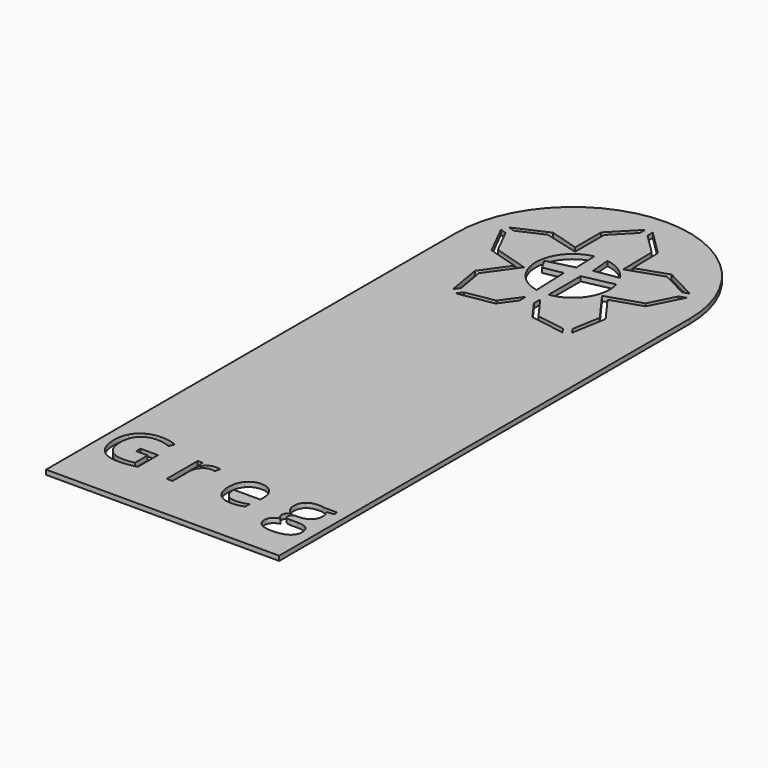
from build123d import *

# Parameters (mm, degrees)
F1_DEPTH = 1


with BuildPart() as f1:
    # F0 (on Top) → F1 (new body)
    with BuildSketch(Plane.XY):
        with BuildLine():
            Line((1.4284653794, -97.4952458707), (1.4284653794, 12.5047541293))
            ThreePointArc((1.4284653794, 12.5047541293), (-23.5715346206, 37.5047541293), (-48.5715346206, 12.5047541293))
            Line((-48.5715346206, 12.5047541293), (-48.5715346206, -97.4952458707))
            Line((-48.5715346206, -97.4952458707), (1.4284653794, -97.4952458707))
        make_face()
        with BuildLine():
            Line((-40.9714938458, -82.839567991), (-40.9714938458, -81.6871724762))
            Line((-40.9714938458, -81.6871724762), (-37.2037670365, -81.6871724762))
            Line((-37.2037670365, -81.6871724762), (-37.2037670365, -87.0779573895))
            add(Edge.make_bspline(
                [(-37.2037670365, -87.0779573895), (-38.0844398193, -87.3593845047), (-38.9942257521, -87.503737206)],
                knots=[0, 0, 0, 1, 1, 1], degree=2))
            add(Edge.make_bspline(
                [(-38.9942257521, -87.503737206), (-39.9040116848, -87.6480899074), (-41.1025030202, -87.6480899074)],
                knots=[0, 0, 0, 1, 1, 1], degree=2))
            add(Edge.make_bspline(
                [(-41.1025030202, -87.6480899074), (-43.6183643861, -87.6480899074), (-45.0206477704, -86.1499757382)],
                knots=[0, 0, 0, 1, 1, 1], degree=2))
            add(Edge.make_bspline(
                [(-45.0206477704, -86.1499757382), (-46.4229311547, -84.6518615689), (-46.4229311547, -81.9540430164)],
                knots=[0, 0, 0, 1, 1, 1], degree=2))
            add(Edge.make_bspline(
                [(-46.4229311547, -81.9540430164), (-46.4229311547, -80.2242366964), (-45.72906775, -78.9238493365)],
                knots=[0, 0, 0, 1, 1, 1], degree=2))
            add(Edge.make_bspline(
                [(-45.72906775, -78.9238493365), (-45.0352043453, -77.6234619767), (-43.7311778418, -76.9380899074)],
                knots=[0, 0, 0, 1, 1, 1], degree=2))
            add(Edge.make_bspline(
                [(-43.7311778418, -76.9380899074), (-42.4271513382, -76.252717838), (-40.6779362516, -76.252717838)],
                knots=[0, 0, 0, 1, 1, 1], degree=2))
            add(Edge.make_bspline(
                [(-40.6779362516, -76.252717838), (-38.9020341109, -76.252717838), (-37.3711676481, -76.902911518)],
                knots=[0, 0, 0, 1, 1, 1], degree=2))
            Line((-37.3711676481, -76.902911518), (-37.8709433871, -78.0407504578))
            add(Edge.make_bspline(
                [(-37.8709433871, -78.0407504578), (-39.3726967001, -77.4051133528), (-40.7604235095, -77.4051133528)],
                knots=[0, 0, 0, 1, 1, 1], degree=2))
            add(Edge.make_bspline(
                [(-40.7604235095, -77.4051133528), (-42.7837874238, -77.4051133528), (-43.9216263637, -78.6096699278)],
                knots=[0, 0, 0, 1, 1, 1], degree=2))
            add(Edge.make_bspline(
                [(-43.9216263637, -78.6096699278), (-45.0594653035, -79.8142265027), (-45.0594653035, -81.9540430164)],
                knots=[0, 0, 0, 1, 1, 1], degree=2))
            add(Edge.make_bspline(
                [(-45.0594653035, -81.9540430164), (-45.0594653035, -84.1981816505), (-43.9640830405, -85.3578554527)],
                knots=[0, 0, 0, 1, 1, 1], degree=2))
            add(Edge.make_bspline(
                [(-43.9640830405, -85.3578554527), (-42.8687007776, -86.517529255), (-40.7458669345, -86.517529255)],
                knots=[0, 0, 0, 1, 1, 1], degree=2))
            add(Edge.make_bspline(
                [(-40.7458669345, -86.517529255), (-39.5934714198, -86.517529255), (-38.494450013, -86.2506587147)],
                knots=[0, 0, 0, 1, 1, 1], degree=2))
            Line((-38.494450013, -86.2506587147), (-38.494450013, -82.839567991))
            Line((-38.494450013, -82.839567991), (-40.9714938458, -82.839567991))
        make_face(mode=Mode.SUBTRACT)
        with BuildLine():
            add(Edge.make_bspline(
                [(-28.3412390039, -79.4733600399), (-27.6886192281, -79.0330236484), (-26.9074163739, -79.0330236484)],
                knots=[0, 0, 0, 1, 1, 1], degree=2))
            add(Edge.make_bspline(
                [(-26.9074163739, -79.0330236484), (-26.3542665268, -79.0330236484), (-25.9151431833, -79.1252152896)],
                knots=[0, 0, 0, 1, 1, 1], degree=2))
            Line((-25.9151431833, -79.1252152896), (-26.0898220823, -80.2921673793))
            add(Edge.make_bspline(
                [(-26.0898220823, -80.2921673793), (-26.6041543963, -80.1781408758), (-26.9996080151, -80.1781408758)],
                knots=[0, 0, 0, 1, 1, 1], degree=2))
            add(Edge.make_bspline(
                [(-26.9996080151, -80.1781408758), (-28.0088638764, -80.1781408758), (-28.7245621435, -80.9969482152)],
                knots=[0, 0, 0, 1, 1, 1], degree=2))
            add(Edge.make_bspline(
                [(-28.7245621435, -80.9969482152), (-29.4402604106, -81.8157555547), (-29.4402604106, -83.0360817524)],
                knots=[0, 0, 0, 1, 1, 1], degree=2))
            Line((-29.4402604106, -83.0360817524), (-29.4402604106, -87.4952458707))
            Line((-29.4402604106, -87.4952458707), (-30.6994041415, -87.4952458707))
            Line((-30.6994041415, -87.4952458707), (-30.6994041415, -79.1858676851))
            Line((-30.6994041415, -79.1858676851), (-29.6610351303, -79.1858676851))
            Line((-29.6610351303, -79.1858676851), (-29.515469381, -80.7240124354))
            Line((-29.515469381, -80.7240124354), (-29.4548169855, -80.7240124354))
            add(Edge.make_bspline(
                [(-29.4548169855, -80.7240124354), (-28.9938587796, -79.9136964313), (-28.3412390039, -79.4733600399)],
                knots=[0, 0, 0, 1, 1, 1], degree=2))
        make_face(mode=Mode.SUBTRACT)
        with BuildLine():
            add(Edge.make_bspline(
                [(-15.3786090344, -87.5219329247), (-15.9730025105, -87.6480899074), (-16.8148577602, -87.6480899074)],
                knots=[0, 0, 0, 1, 1, 1], degree=2))
            add(Edge.make_bspline(
                [(-16.8148577602, -87.6480899074), (-18.6562644881, -87.6480899074), (-19.7225336012, -86.5248075424)],
                knots=[0, 0, 0, 1, 1, 1], degree=2))
            add(Edge.make_bspline(
                [(-19.7225336012, -86.5248075424), (-20.7888027143, -85.4015251775), (-20.7888027143, -83.4097005088)],
                knots=[0, 0, 0, 1, 1, 1], degree=2))
            add(Edge.make_bspline(
                [(-20.7888027143, -83.4097005088), (-20.7888027143, -81.3984670735), (-19.7989556195, -80.215745361)],
                knots=[0, 0, 0, 1, 1, 1], degree=2))
            add(Edge.make_bspline(
                [(-19.7989556195, -80.215745361), (-18.8091085247, -79.0330236484), (-17.1399546002, -79.0330236484)],
                knots=[0, 0, 0, 1, 1, 1], degree=2))
            add(Edge.make_bspline(
                [(-17.1399546002, -79.0330236484), (-15.5799749875, -79.0330236484), (-14.6701890548, -80.0604752285)],
                knots=[0, 0, 0, 1, 1, 1], degree=2))
            add(Edge.make_bspline(
                [(-14.6701890548, -80.0604752285), (-13.7604031221, -81.0879268085), (-13.7604031221, -82.771637308)],
                knots=[0, 0, 0, 1, 1, 1], degree=2))
            Line((-13.7604031221, -82.771637308), (-13.7604031221, -83.5673967371))
            Line((-13.7604031221, -83.5673967371), (-19.4835631629, -83.5673967371))
            add(Edge.make_bspline(
                [(-19.4835631629, -83.5673967371), (-19.4447456297, -85.0303325169), (-18.7436039376, -85.7884874609)],
                knots=[0, 0, 0, 1, 1, 1], degree=2))
            add(Edge.make_bspline(
                [(-18.7436039376, -85.7884874609), (-18.0424622454, -86.5466424048), (-16.7687619396, -86.5466424048)],
                knots=[0, 0, 0, 1, 1, 1], degree=2))
            add(Edge.make_bspline(
                [(-16.7687619396, -86.5466424048), (-15.4271309508, -86.5466424048), (-14.1170392077, -85.9862142703)],
                knots=[0, 0, 0, 1, 1, 1], degree=2))
            Line((-14.1170392077, -85.9862142703), (-14.1170392077, -87.1094966352))
            add(Edge.make_bspline(
                [(-14.1170392077, -87.1094966352), (-14.7842155584, -87.395775942), (-15.3786090344, -87.5219329247)],
                knots=[0, 0, 0, 1, 1, 1], degree=2))
        make_face(mode=Mode.SUBTRACT)
        with BuildLine():
            Line((-3.6508618377, -79.1858676851), (-0.7783643861, -79.1858676851))
            Line((-0.7783643861, -79.1858676851), (-0.7783643861, -79.9816271143))
            Line((-0.7783643861, -79.9816271143), (-2.3165091364, -80.1635843008))
            add(Edge.make_bspline(
                [(-2.3165091364, -80.1635843008), (-2.1054388, -80.4280287453), (-1.9380381884, -80.8574477055)],
                knots=[0, 0, 0, 1, 1, 1], degree=2))
            add(Edge.make_bspline(
                [(-1.9380381884, -80.8574477055), (-1.7706375767, -81.2868666658), (-1.7706375767, -81.8230338421)],
                knots=[0, 0, 0, 1, 1, 1], degree=2))
            add(Edge.make_bspline(
                [(-1.7706375767, -81.8230338421), (-1.7706375767, -83.0457861357), (-2.605214539, -83.7736148819)],
                knots=[0, 0, 0, 1, 1, 1], degree=2))
            add(Edge.make_bspline(
                [(-2.605214539, -83.7736148819), (-3.4397915013, -84.5014436281), (-4.8954489937, -84.5014436281)],
                knots=[0, 0, 0, 1, 1, 1], degree=2))
            add(Edge.make_bspline(
                [(-4.8954489937, -84.5014436281), (-5.2666416542, -84.5014436281), (-5.5917384942, -84.4407912325)],
                knots=[0, 0, 0, 1, 1, 1], degree=2))
            add(Edge.make_bspline(
                [(-5.5917384942, -84.4407912325), (-6.3947762108, -84.8653580011), (-6.3947762108, -85.5082733936)],
                knots=[0, 0, 0, 1, 1, 1], degree=2))
            add(Edge.make_bspline(
                [(-6.3947762108, -85.5082733936), (-6.3947762108, -85.8503529043), (-6.1145621435, -86.0129013243)],
                knots=[0, 0, 0, 1, 1, 1], degree=2))
            add(Edge.make_bspline(
                [(-6.1145621435, -86.0129013243), (-5.8343480762, -86.1754497443), (-5.1526151506, -86.1754497443)],
                knots=[0, 0, 0, 1, 1, 1], degree=2))
            Line((-5.1526151506, -86.1754497443), (-3.6824010834, -86.1754497443))
            add(Edge.make_bspline(
                [(-3.6824010834, -86.1754497443), (-2.3310657113, -86.1754497443), (-1.6080891568, -86.7443692142)],
                knots=[0, 0, 0, 1, 1, 1], degree=2))
            add(Edge.make_bspline(
                [(-1.6080891568, -86.7443692142), (-0.8851126022, -87.3132886841), (-0.8851126022, -88.3977535159)],
                knots=[0, 0, 0, 1, 1, 1], degree=2))
            add(Edge.make_bspline(
                [(-0.8851126022, -88.3977535159), (-0.8851126022, -89.7782020378), (-1.9914122964, -90.5023916403)],
                knots=[0, 0, 0, 1, 1, 1], degree=2))
            add(Edge.make_bspline(
                [(-1.9914122964, -90.5023916403), (-3.0977119906, -91.2265812427), (-5.2205458336, -91.2265812427)],
                knots=[0, 0, 0, 1, 1, 1], degree=2))
            add(Edge.make_bspline(
                [(-5.2205458336, -91.2265812427), (-6.8508822251, -91.2265812427), (-7.7339811037, -90.6200572876)],
                knots=[0, 0, 0, 1, 1, 1], degree=2))
            add(Edge.make_bspline(
                [(-7.7339811037, -90.6200572876), (-8.6170799824, -90.0135333324), (-8.6170799824, -88.9048075424)],
                knots=[0, 0, 0, 1, 1, 1], degree=2))
            add(Edge.make_bspline(
                [(-8.6170799824, -88.9048075424), (-8.6170799824, -88.1478656464), (-8.1318608183, -87.5935027514)],
                knots=[0, 0, 0, 1, 1, 1], degree=2))
            add(Edge.make_bspline(
                [(-8.1318608183, -87.5935027514), (-7.6466416542, -87.0391398564), (-6.7683949672, -86.8426260949)],
                knots=[0, 0, 0, 1, 1, 1], degree=2))
            add(Edge.make_bspline(
                [(-6.7683949672, -86.8426260949), (-7.0862135197, -86.6994864415), (-7.3021360477, -86.3962244639)],
                knots=[0, 0, 0, 1, 1, 1], degree=2))
            add(Edge.make_bspline(
                [(-7.3021360477, -86.3962244639), (-7.5180585757, -86.0929624864), (-7.5180585757, -85.6902305801)],
                knots=[0, 0, 0, 1, 1, 1], degree=2))
            add(Edge.make_bspline(
                [(-7.5180585757, -85.6902305801), (-7.5180585757, -85.2365506617), (-7.2754489937, -84.894471151)],
                knots=[0, 0, 0, 1, 1, 1], degree=2))
            add(Edge.make_bspline(
                [(-7.2754489937, -84.894471151), (-7.0328394116, -84.5523916403), (-6.5088027143, -84.2345730878)],
                knots=[0, 0, 0, 1, 1, 1], degree=2))
            add(Edge.make_bspline(
                [(-6.5088027143, -84.2345730878), (-7.1541442026, -83.9701286433), (-7.5593022047, -83.3332784904)],
                knots=[0, 0, 0, 1, 1, 1], degree=2))
            add(Edge.make_bspline(
                [(-7.5593022047, -83.3332784904), (-7.9644602067, -82.6964283375), (-7.9644602067, -81.8764079502)],
                knots=[0, 0, 0, 1, 1, 1], degree=2))
            add(Edge.make_bspline(
                [(-7.9644602067, -81.8764079502), (-7.9644602067, -80.512942099), (-7.1456528673, -79.7729828737)],
                knots=[0, 0, 0, 1, 1, 1], degree=2))
            add(Edge.make_bspline(
                [(-7.1456528673, -79.7729828737), (-6.3268455278, -79.0330236484), (-4.8275183107, -79.0330236484)],
                knots=[0, 0, 0, 1, 1, 1], degree=2))
            add(Edge.make_bspline(
                [(-4.8275183107, -79.0330236484), (-4.1748985349, -79.0330236484), (-3.6508618377, -79.1858676851)],
                knots=[0, 0, 0, 1, 1, 1], degree=2))
        make_face(mode=Mode.SUBTRACT)
        Polygon((-34.1146393561, -3.5552836556), (-27.9691070318, -2.5021913461), (-25.0127399754, 1.6040197864), (-24.9551255256, 0), (-24.9469702633, -0.0161059202), (-27.3967417615, -3.418687131), (-34.9305713318, -4.7096766763), align=None, mode=Mode.SUBTRACT)
        Polygon((-36.467988044, 3.4470248502), (-35.4212190855, -2.6317851929), (-36.2371510612, -3.7861782136), (-37.5244820123, 3.6896265006), (-33.5243582615, 9.2696040129), (-40.0252380366, 11.2502726005), (-43.4422977063, 18.0631549671), (-42.1049959107, 17.6273735439), (-39.3236093223, 12.0818866417), (-31.8994479815, 9.8199153908), align=None, mode=Mode.SUBTRACT)
        with BuildLine():
            Line((-29.4647216797, 11.6258272901), (-25.3998301923, 12.3808365315))
            Line((-25.3998301923, 12.3808365315), (-25.1242259491, 4.7078541275))
            ThreePointArc((-25.1242259491, 4.7078541275), (-31.5214414169, 12.4662582948), (-25.1996612252, 20.2862516561))
            Line((-25.1996612252, 20.2862516561), (-24.9974597245, 15.254214406))
            Line((-24.9974597245, 15.254214406), (-30.6977666914, 13.7786027044))
            Line((-30.6977666914, 13.7786027044), (-29.4647216797, 11.6258272901))
        make_face(mode=Mode.SUBTRACT)
        Polygon((-28.7392211321, 27.3576490228), (-28.7392211321, 19.5657396213), (-36.1623332402, 21.5265380248), (-41.5232876548, 19.1206226394), (-42.8605894504, 19.5564040626), (-35.9347263225, 22.6646268468), (-29.7392211321, 20.8407253825), (-29.7392211321, 27.7643422136), (-24.524, 33.1155836874), (-24.524, 31.6828090826), align=None, mode=Mode.SUBTRACT)
        Polygon((-18.9432967454, -2.5021913461), (-12.902453524, -3.4784627608), (-12.0855563588, -4.6234579723), (-19.5114980328, -3.4233383337), (-22.4832184613, 0.6903432762), (-22.4832184613, 2.3980377345), align=None, mode=Mode.SUBTRACT)
        with BuildLine():
            Line((-22.4832184613, 13.246525079), (-15.9125593534, 14.6360912346))
            ThreePointArc((-15.9125593534, 14.6360912346), (-16.9261415986, 8.1411258703), (-22.4832184613, 4.6295990237))
            Line((-22.4832184613, 4.6295990237), (-22.4832184613, 13.246525079))
        make_face(mode=Mode.SUBTRACT)
        with BuildLine():
            Line((-22.0680851489, 16.0352941602), (-22.4516364952, 20.3754801561))
            ThreePointArc((-22.4516364952, 20.3754801561), (-19.3123558546, 19.2175699498), (-16.9275561235, 16.8705358154))
            Line((-16.9275561235, 16.8705358154), (-22.0680851489, 16.0352941602))
        make_face(mode=Mode.SUBTRACT)
        Polygon((-18.586345017, 27.4138655514), (-22.924, 31.7119584513), (-22.924, 33.1197375372), (-17.5934200032, 27.8377757107), (-17.4768023876, 20.9907870217), (-10.9566895333, 23.2121635497), (-4.2333611484, 19.7078791733), (-5.5711774969, 19.2774858551), (-11.0393390059, 22.1275612712), (-18.4532878419, 19.6016583778), align=None, mode=Mode.SUBTRACT)
        Polygon((-7.8267613426, 12.3198563233), (-5.081169753, 17.7543665522), (-3.7433534044, 18.1847598704), (-7.1211127378, 11.4989630033), (-13.6084618907, 9.3699249582), (-9.5063190227, 3.6914265653), (-10.7830683479, -3.6941975237), (-11.599965513, -2.5492023123), (-10.563400574, 3.4470248502), (-15.2202782446, 9.8934293806), align=None, mode=Mode.SUBTRACT)
    extrude(amount=F1_DEPTH)


solid = f1.part
